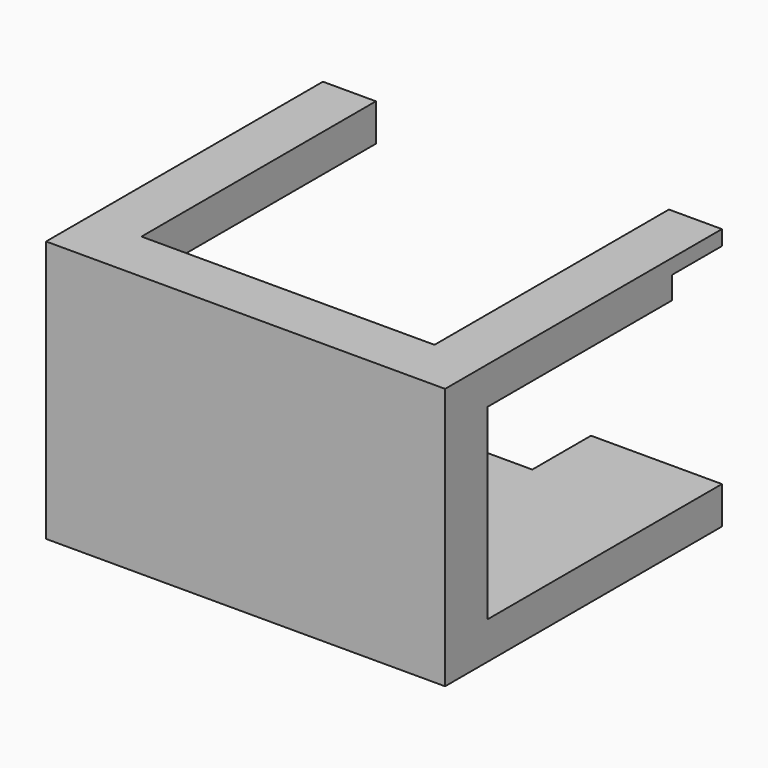
from build123d import *

# Parameters (mm, degrees)
F1_DEPTH  = 3
F2_W      = 32
F2_H      = 4.25
F3_DEPTH  = 15
F4_W      = 32
F4_H      = 3
F5_DEPTH  = 27.75
F6_W      = 2
F6_H      = 1.8
F7_DEPTH  = 23.5
F8_W      = 4.25
F8_H      = 1.8
F9_DEPTH  = 5
F10_W     = 11
F10_H     = 5.8846425861
F11_DEPTH = 3


with BuildPart() as f1:
    # F0 (on Top) → F1 (new body)
    with BuildSketch(Plane.XY):
        Polygon((11.75, 11.75), (11.75, -11.75), (-11.75, -11.75), (-11.75, 11.75), (-16, 11.75), (-16, -16), (16, -16), (16, 11.75), align=None)
    extrude(amount=F1_DEPTH)

    # F2 (on face) → F3 (join)
    with BuildSketch(Plane(origin=(0, 0, 0), x_dir=(1, 0, 0), z_dir=(0, 0, -1))):
        with Locations((0, 13.875)):
            Rectangle(F2_W, F2_H)
    extrude(amount=F3_DEPTH)

    # F4 (on face) → F5 (join, through all)
    with BuildSketch(Plane.XZ.offset(16)):
        with Locations((0, -16.5)):
            Rectangle(F4_W, F4_H)
    extrude(amount=-F5_DEPTH)

    # F6 (on face) → F7 (cut, through all)
    with BuildSketch(Plane(origin=(0, 11.75, 0), x_dir=(-1, 0, 0), z_dir=(0, 1, 0))):
        with Locations((13.95, 0.9)):
            Rectangle(F6_W, F6_H)
        with Locations((-13.95, 0.9)):
            Rectangle(F6_W, F6_H)
    extrude(amount=-F7_DEPTH, mode=Mode.SUBTRACT)

    # F8 (on face) → F9 (cut)
    with BuildSketch(Plane(origin=(0, 11.75, 0), x_dir=(-1, 0, 0), z_dir=(0, 1, 0))):
        with Locations((-13.875, 0.9)):
            Rectangle(F8_W, F8_H)
    extrude(amount=-F9_DEPTH, mode=Mode.SUBTRACT)

    # F10 (on face) → F11 (cut, through all)
    with BuildSketch(Plane.XY.offset(-15)):
        with Locations((0, 8.8076787069)):
            Rectangle(F10_W, F10_H)
    extrude(amount=-F11_DEPTH, mode=Mode.SUBTRACT)


solid = f1.part
